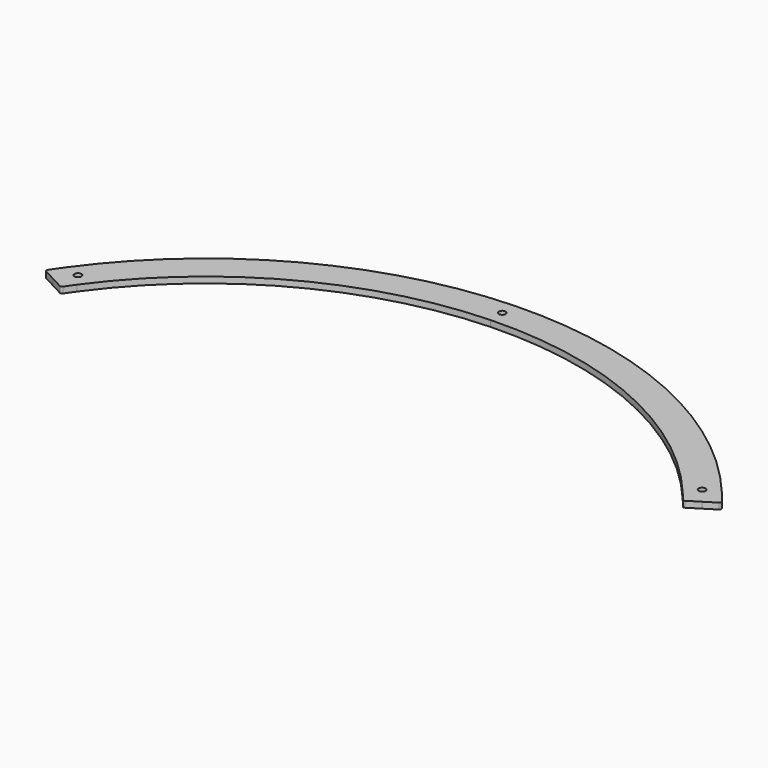
from build123d import *

# Parameters (mm, degrees)
PAD021_DEPTH                        = 3
SKETCH083_R                         = 1.7
POCKET041_DEPTH                     = 0.001
POCKET041_DEPTH_BACK                = 3.001
SKETCH084_R                         = 1.7
POCKET042_DEPTH                     = 0.001
POCKET042_DEPTH_BACK                = 3.001
BODY001003005003013_PLACEMENT_ANGLE = 60
CLONE018_PLACEMENT_ANGLE            = 58


with BuildPart() as part:
    # Sketch082 → Pad021 (new body)
    with BuildSketch(Plane.XY):
        with BuildLine():
            ThreePointArc((156.627412, 120.879551), (87.258751, 177.56667), (0, 197.848457))
            Line((0, 197.848457), (0, 182.848457))
            ThreePointArc((144.752611, 111.714995), (80.643177, 164.104346), (0, 182.848457))
            ThreePointArc((148.102078, 107.234942), (146.444477, 109.487778), (144.752611, 111.714995))
            ThreePointArc((148.102078, 107.234942), (148.703343, 106.843433), (149.41205, 106.955386))
            Line((155.154429, 110.27075), (149.41205, 106.955386))
            Line((155.154429, 110.27075), (160.726477, 113.487773))
            ThreePointArc((160.726477, 113.487773), (161.203737, 114.141753), (161.040435, 114.934722))
            ThreePointArc((161.040435, 114.934722), (158.861734, 117.927781), (156.627412, 120.879551))
        make_face()
    pad021 = extrude(amount=PAD021_DEPTH)

    # Mirrored029: Pad021 across Sketch082 V_Axis
    add(pad021.mirror(Plane(origin=(0, 0, 0), x_dir=(0, 0, 1), z_dir=(1, 0, 0))))

    # Sketch083 → Pocket041 (cut, two sides)
    with BuildSketch(Plane.XY) as pocket041_sk:
        with Locations((149.149219, 118.266841)):
            Circle(SKETCH083_R)
        with Locations((-149.149219, 118.266841)):
            Circle(SKETCH083_R)
    extrude(amount=-POCKET041_DEPTH, mode=Mode.SUBTRACT)
    extrude(pocket041_sk.sketch, amount=POCKET041_DEPTH_BACK, mode=Mode.SUBTRACT)

    # Sketch084 → Pocket042 (cut, two sides)
    with BuildSketch(Plane.XY) as pocket042_sk:
        with Locations((0, 190.348457)):
            Circle(SKETCH084_R)
    extrude(amount=-POCKET042_DEPTH, mode=Mode.SUBTRACT)
    extrude(pocket042_sk.sketch, amount=POCKET042_DEPTH_BACK, mode=Mode.SUBTRACT)


with BuildPart() as part_1:
    # Body001003005003013 placement: moved
    add(part.part.rotate(Axis((0, 0, 0), (0, 0, 1)), BODY001003005003013_PLACEMENT_ANGLE))


with BuildPart() as part_2:
    # Clone018 placement: moved
    add(part_1.part.moved(Location((817, 835, 0))).rotate(Axis((817, 835, 0), (0, 0, -1)), CLONE018_PLACEMENT_ANGLE))


solid = part_2.part
